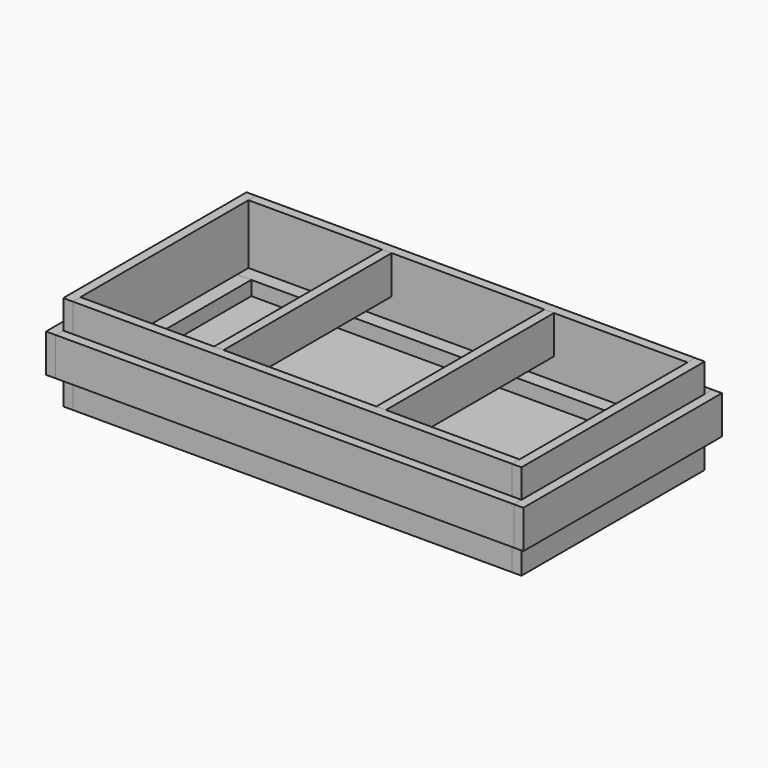
from build123d import *

# Parameters (mm, degrees)
F0_W          = 584.2
F0_H          = 279.4
F1_DEPTH      = 3.175
F2_W          = 584.2
F2_H          = 12.7
F3_DEPTH      = 101.6
F3_DEPTH_BACK = 25.4
F5_W          = 12.7
F5_H          = 304.8
F6_DEPTH      = 101.6
F6_DEPTH_BACK = 25.4
F9_START      = 12.7
F8_W          = 609.6
F8_H          = 12.7
F9_DEPTH      = 50.8
F12_START     = 12.7
F11_W         = 12.7
F11_H         = 330.2
F12_DEPTH     = 50.8
F15_START     = 50.8
F14_W         = 12.7
F14_H         = 279.4
F15_DEPTH     = 50.8
F18_START     = 3.175
F17_W         = 584.2
F17_H         = 19.05
F18_DEPTH     = 19.05
F21_START     = 3.175
F20_W         = 19.05
F20_H         = 241.3
F21_DEPTH     = 19.05


with BuildPart() as f1:
    # F0 (on Top) → F1 (new body)
    with BuildSketch(Plane.XY):
        Rectangle(F0_W, F0_H)
    extrude(amount=F1_DEPTH)


with BuildPart() as f3:
    # F2 (on Top) → F3 (new body, two sides)
    with BuildSketch(Plane.XY) as f3_sk:
        with Locations((0, 146.05)):
            Rectangle(F2_W, F2_H)
    extrude(amount=F3_DEPTH)
    extrude(f3_sk.sketch, amount=-F3_DEPTH_BACK)


with BuildPart() as f4_1:
    # F4: instance of F3
    add(f3.part.mirror(Plane.XZ))


with BuildPart() as f6:
    # F5 (on Top) → F6 (new body, two sides)
    with BuildSketch(Plane.XY) as f6_sk:
        with Locations((298.45, 0)):
            Rectangle(F5_W, F5_H)
    extrude(amount=F6_DEPTH)
    extrude(f6_sk.sketch, amount=-F6_DEPTH_BACK)


with BuildPart() as f7_1:
    # F7: instance of F6
    add(f6.part.mirror(Plane.YZ))


with BuildPart() as f9:
    # F8 (on Top) → F9 (new body)
    with BuildSketch(Plane.XY.offset(F9_START)):
        with Locations((0, 158.75)):
            Rectangle(F8_W, F8_H)
    extrude(amount=F9_DEPTH)


with BuildPart() as f10_1:
    # F10: instance of F9
    add(f9.part.mirror(Plane.XZ))


with BuildPart() as f12:
    # F11 (on Top) → F12 (new body)
    with BuildSketch(Plane.XY.offset(F12_START)):
        with Locations((311.15, 0)):
            Rectangle(F11_W, F11_H)
    extrude(amount=F12_DEPTH)


with BuildPart() as f13_1:
    # F13: instance of F12
    add(f12.part.mirror(Plane.YZ))


with BuildPart() as f15:
    # F14 (on Top) → F15 (new body)
    with BuildSketch(Plane.XY.offset(F15_START)):
        with Locations((107.95, 0)):
            Rectangle(F14_W, F14_H)
    extrude(amount=F15_DEPTH)


with BuildPart() as f16_1:
    # F16: instance of F15
    add(f15.part.mirror(Plane.YZ))


with BuildPart() as f18:
    # F17 (on Top) → F18 (new body)
    with BuildSketch(Plane.XY.offset(F18_START)):
        with Locations((0, 130.175)):
            Rectangle(F17_W, F17_H)
    extrude(amount=F18_DEPTH)


with BuildPart() as f19_1:
    # F19: instance of F18
    add(f18.part.mirror(Plane.XZ))


with BuildPart() as f21:
    # F20 (on Top) → F21 (new body)
    with BuildSketch(Plane.XY.offset(F21_START)):
        with Locations((282.575, 0)):
            Rectangle(F20_W, F20_H)
    extrude(amount=F21_DEPTH)


with BuildPart() as f22_1:
    # F22: instance of F21
    add(f21.part.mirror(Plane.YZ))


solid = Compound([f1.part, f3.part, f4_1.part, f6.part, f7_1.part, f9.part, f10_1.part, f12.part, f13_1.part, f15.part, f16_1.part, f18.part, f19_1.part, f21.part, f22_1.part])
